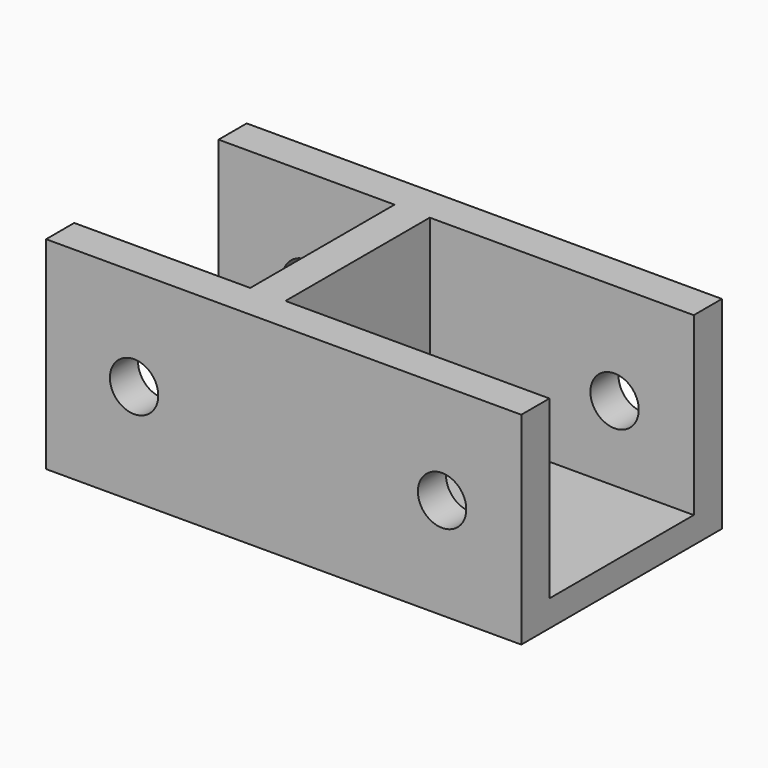
from build123d import *

# Parameters (mm, degrees)
PAD043_DEPTH            = 11.5
SKETCH069_W             = 10.25
SKETCH069_H             = 30
PAD044_DEPTH            = 3
SKETCH070_R             = 2.75
POCKET020_DEPTH         = 5
BODY033_PLACEMENT_ANGLE = 90


with BuildPart() as part:
    # Sketch068 → Pad043 (new body, symmetric)
    with BuildSketch(Plane.XY):
        Polygon((0, 0), (10.25, 0), (10.25, 20), (14.25, 20), (14.25, -34), (10.25, -34), (10.25, -4), (0, -4), align=None)
    pad043 = extrude(amount=PAD043_DEPTH, both=True)

    # Sketch069 (on Face9 of Pad043) → Pad044 (join)
    with BuildSketch(Plane(origin=(0, 0, -11.5), x_dir=(1, 0, 0), z_dir=(0, 0, -1))):
        with Locations((5.125, 19)):
            Rectangle(SKETCH069_W, SKETCH069_H)
    pad044 = extrude(amount=-PAD044_DEPTH)

    # Sketch070 (on Face9 of Pad044) → Pocket020 (cut)
    with BuildSketch(Plane.YZ.offset(14.25)):
        with Locations((-25, 0)):
            Circle(SKETCH070_R)
        with Locations((10, 0)):
            Circle(SKETCH070_R)
    pocket020 = extrude(amount=-POCKET020_DEPTH, mode=Mode.SUBTRACT)

    # Mirrored019: Pad043, Pad044, Pocket020 across Sketch068 V_Axis
    add(pad043.mirror(Plane(origin=(0, 0, 0), x_dir=(0, 0, 1), z_dir=(1, 0, 0))))
    add(pad044.mirror(Plane(origin=(0, 0, 0), x_dir=(0, 0, 1), z_dir=(1, 0, 0))))
    add(pocket020.mirror(Plane(origin=(0, 0, 0), x_dir=(0, 0, 1), z_dir=(1, 0, 0))), mode=Mode.SUBTRACT)


with BuildPart() as part_1:
    # Body033 placement: moved
    add(part.part.moved(Location((-140, 0, 0))).rotate(Axis((-140, 0, 0), (0, 0, 1)), BODY033_PLACEMENT_ANGLE))


solid = part_1.part
